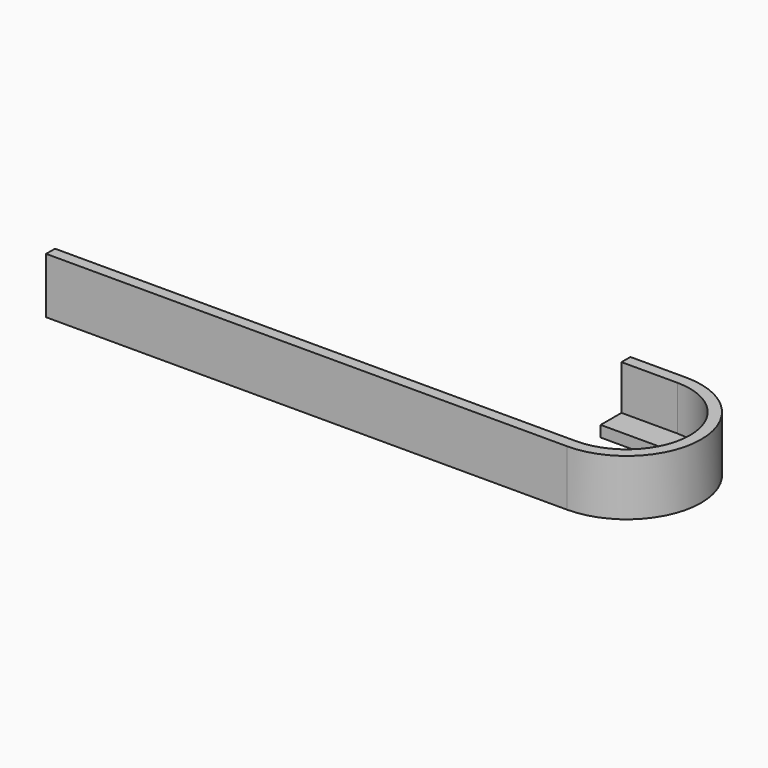
from build123d import *


with BuildPart() as f2:
    # F2: sweep along a path in F0
    with BuildLine(Plane.XY) as f2_path:
        Line((0, 0), (140, 0))
        ThreePointArc((140, 0), (160, 20), (140, 40))
        Line((140, 40), (125, 40))
    # F1 (on Right) → F2 (sweep)
    with BuildSketch(Plane.YZ):
        Polygon((0, 15), (0, 0), (10, 0), (10, 3), (3, 3), (3, 15), align=None)
    sweep(path=f2_path.line)


solid = f2.part
